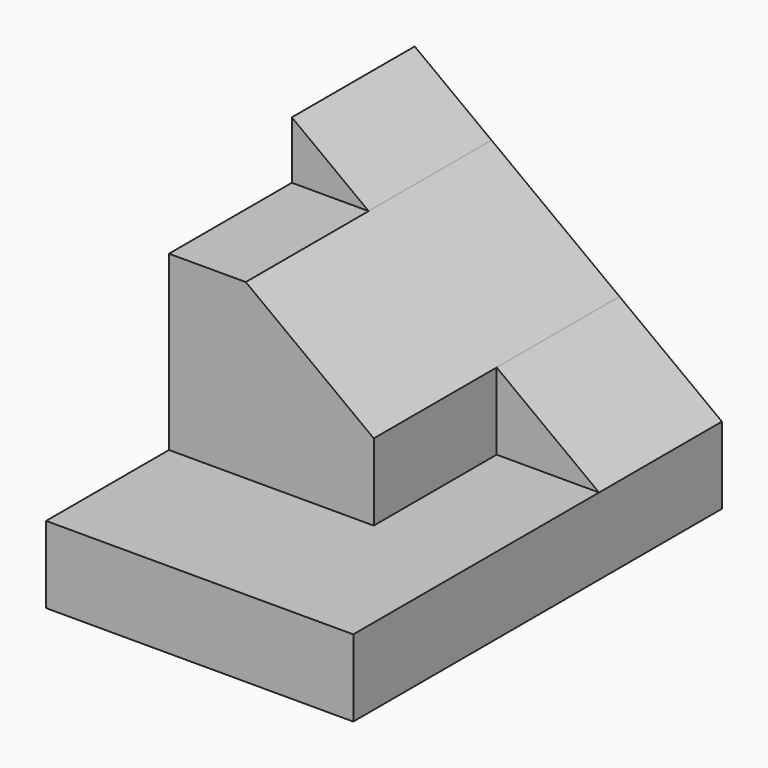
from build123d import *

# Parameters (mm, degrees)
F1_DEPTH = 38.1
F2_DEPTH = 25.4
F3_DEPTH = 12.7
F4_DEPTH = 12.7


with BuildPart() as f1:
    # F0 (on Front) → F1 (new body)
    with BuildSketch(Plane.XZ):
        Polygon((0, 6.35), (0, 0), (25.4, 0), (25.4, 6.35), (16.933333, 6.35), align=None)
    extrude(amount=F1_DEPTH)

    # F0 (on Front) → F2 (join)
    with BuildSketch(Plane.XZ):
        Polygon((0, 20.6375), (0, 6.35), (16.933333, 6.35), (16.933333, 12.7), (6.35, 20.6375), align=None)
    extrude(amount=F2_DEPTH)

    # F0 (on Front) → F3 (join)
    with BuildSketch(Plane.XZ):
        Polygon((0, 25.4), (0, 20.6375), (6.35, 20.6375), align=None)
    extrude(amount=F3_DEPTH)

    # F0 (on Front) → F4 (join)
    with BuildSketch(Plane.XZ):
        Polygon((16.933333, 12.7), (16.933333, 6.35), (25.4, 6.35), align=None)
    extrude(amount=F4_DEPTH)


solid = f1.part
